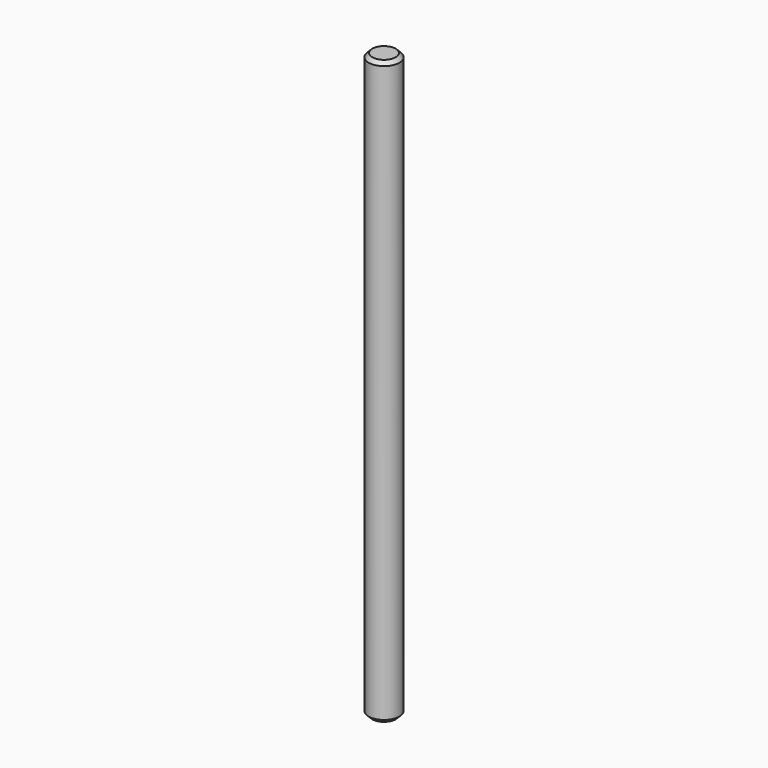
from build123d import *

# Parameters (mm, degrees)
SKETCH_R     = 2.1
PAD_DEPTH    = 80
CHAMFER_SIZE = 0.5


with BuildPart() as part:
    # Sketch → Pad (new body)
    with BuildSketch(Plane.XY):
        Circle(SKETCH_R)
    extrude(amount=PAD_DEPTH)

    # Chamfer
    chamfer_edges = [part.edges().sort_by_distance(p)[0] for p in [
        (-2.1, 0, 80),
        (-2.1, 0, 0),
    ]]
    chamfer(chamfer_edges, length=CHAMFER_SIZE)


solid = part.part
